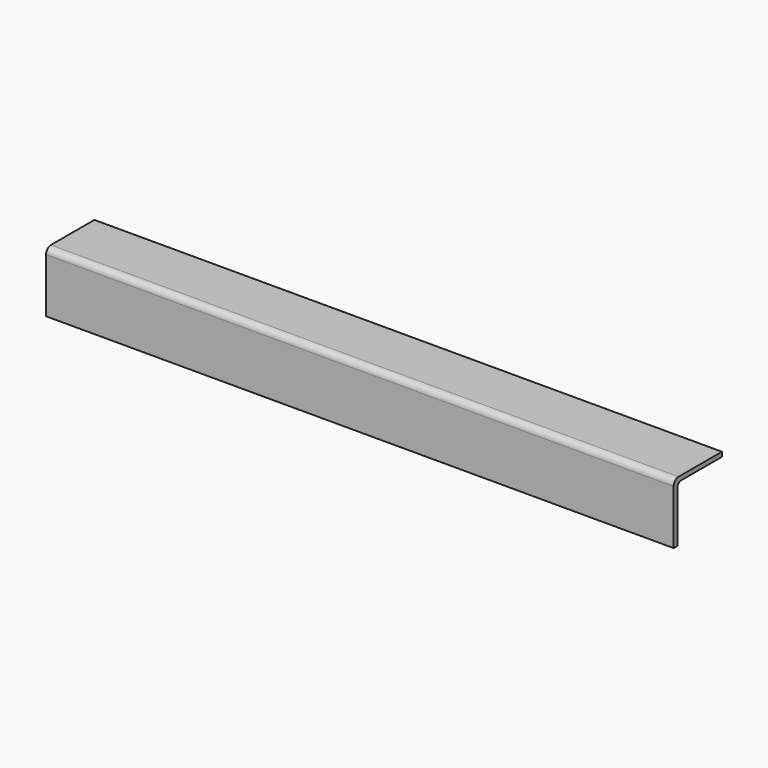
from build123d import *

# Parameters (mm, degrees)
F1_DEPTH = 660.4


with BuildPart() as f1:
    # F0 (on Right) → F1 (new body)
    with BuildSketch(Plane.YZ):
        with BuildLine():
            Line((-28.115756, 44.895094), (-28.115756, -12.254906))
            Line((-28.115756, -12.254906), (-23.353256, -12.254906))
            Line((-23.353256, -12.254906), (-23.353256, 41.402594))
            ThreePointArc((-23.353256, 41.402594), (-21.865359, 44.994697), (-18.273256, 46.482594))
            Line((-18.273256, 46.482594), (35.384244, 46.482594))
            Line((35.384244, 46.482594), (35.384244, 51.245094))
            Line((35.384244, 51.245094), (-21.765756, 51.245094))
            ThreePointArc((-21.765756, 51.245094), (-26.255884, 49.385222), (-28.115756, 44.895094))
        make_face()
    extrude(amount=F1_DEPTH)


solid = f1.part
